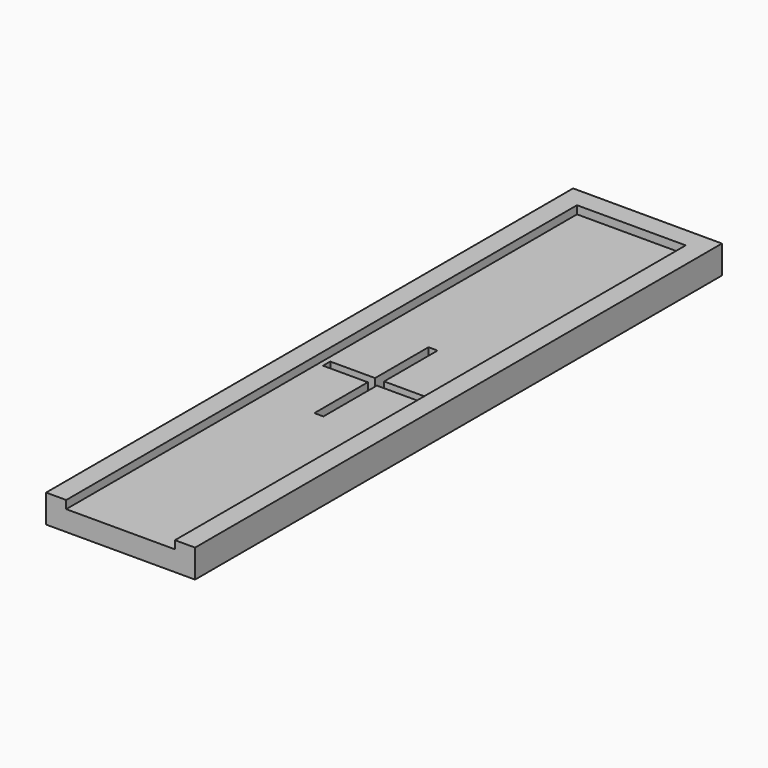
from build123d import *

# Parameters (mm, degrees)
F0_W     = 13.716
F0_H     = 80.5434
F1_DEPTH = 2.54
F2_DEPTH = 3.556


with BuildPart() as f1:
    # F0 (on Top) → F1 (new body)
    with BuildSketch(Plane.XY):
        Rectangle(F0_W, F0_H)
        Polygon((-0.5715, 9), (0.5715, 9), (0.5715, 0.5715), (6.223, 0.5715), (6.223, -0.5715), (0.5715, -0.5715), (0.5715, -9), (-0.5715, -9), (-0.5715, -0.5715), (-6.223, -0.5715), (-6.223, 0.5715), (-0.5715, 0.5715), align=None, mode=Mode.SUBTRACT)
    extrude(amount=F1_DEPTH)

    # F0 (on Top) → F2 (join)
    with BuildSketch(Plane.XY):
        Polygon((6.858, 40.2717), (6.858, -40.2717), (9.398, -40.2717), (9.398, 42.808072), (-9.398, 42.834938), (-9.398, -40.2717), (-6.858, -40.2717), (-6.858, 40.2717), align=None)
    extrude(amount=F2_DEPTH)


solid = f1.part
